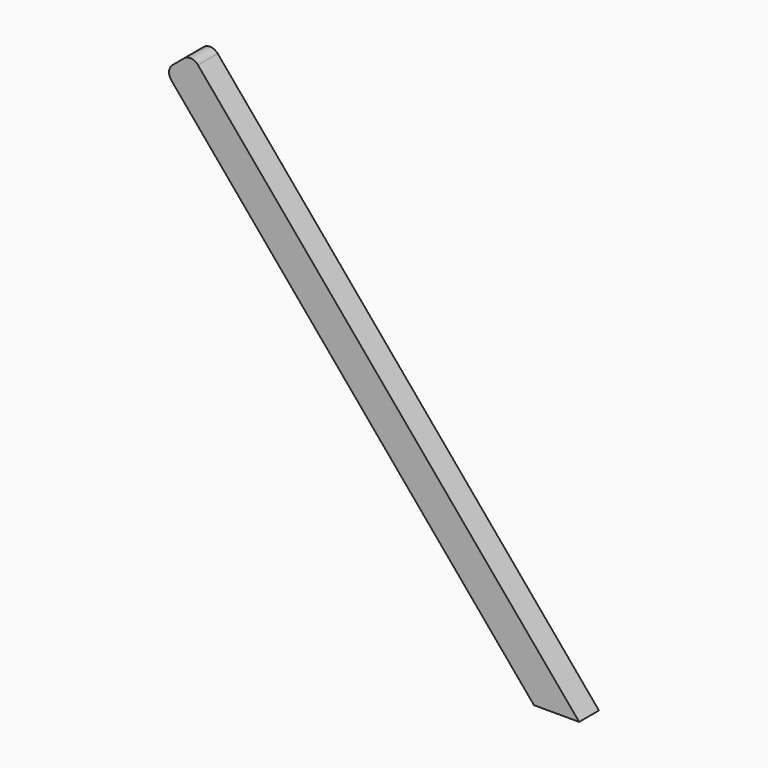
from build123d import *

# Parameters (mm, degrees)
F0_W     = 3.5
F0_H     = 61
F1_DEPTH = 2.5
F2_R     = 1
F3_ANGLE = -40
F4_W     = 59.4788547605
F4_H     = 9.7545320168
F5_DEPTH = 25


with BuildPart() as f1:
    # F0 (on Front) → F1 (new body)
    with BuildSketch(Plane.XZ):
        with Locations((-1.75, 30.5)):
            Rectangle(F0_W, F0_H)
    extrude(amount=F1_DEPTH)

    # F2
    f2_edges = [f1.edges().sort_by_distance(p)[0] for p in [
        (-3.5, -1.25, 61),
        (0, -1.25, 61),
    ]]
    fillet(f2_edges, radius=F2_R)


with BuildPart() as f1_1:
    # F3: moved
    add(f1.part.rotate(Axis((0, -1.25, 0), (0, 1, 0)), F3_ANGLE))


with BuildPart() as f5:
    # F4 (on Front) → F5 (new body)
    with BuildSketch(Plane.XZ):
        with Locations((-13.0853476003, -4.8772660084)):
            Rectangle(F4_W, F4_H)
    extrude(amount=F5_DEPTH)


with BuildPart() as f1_2:
    add(f1_1.part)

    # F6: cut F5
    add(f5.part, mode=Mode.SUBTRACT)


solid = f1_2.part
